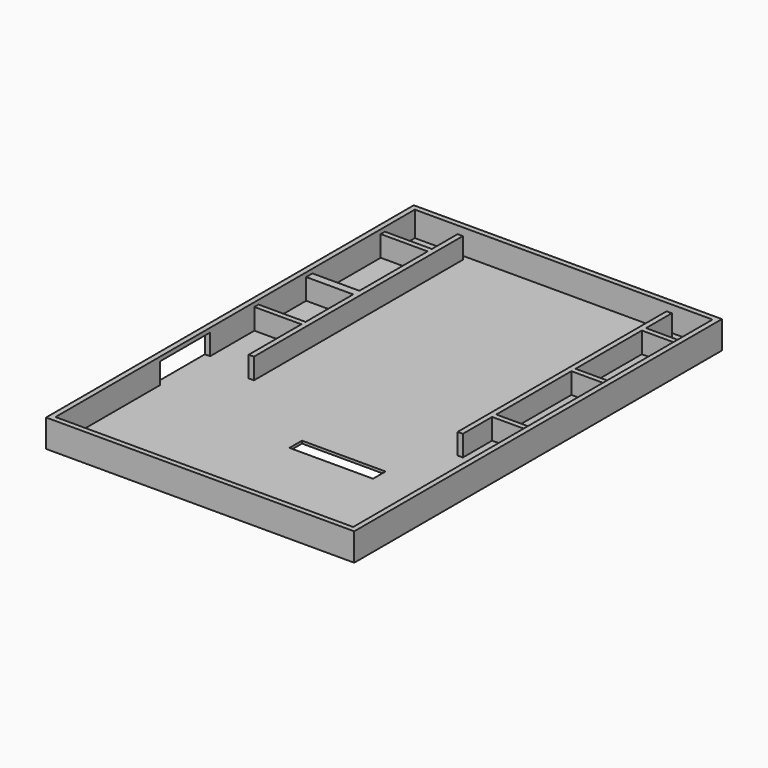
from build123d import *

# Parameters (mm, degrees)
F0_W      = 59
F0_H      = 88
F1_DEPTH  = 5.3
F2_W      = 57
F2_H      = 86
F3_DEPTH  = 4.8
F4_W      = 12
F4_H      = 4
F5_DEPTH  = 2
F6_W      = 1
F6_H      = 50
F7_DEPTH  = 4
F8_W      = 9
F8_H      = 1
F8_W_2    = 7
F8_H_2    = 1.5
F9_DEPTH  = 4
F10_W     = 16
F10_H     = 3
F11_DEPTH = 1


with BuildPart() as f1:
    # F0 (on Top) → F1 (new body)
    with BuildSketch(Plane.XY):
        Rectangle(F0_W, F0_H)
    extrude(amount=F1_DEPTH)

    # F2 (on face) → F3 (cut)
    with BuildSketch(Plane.XY.offset(5.3)):
        Rectangle(F2_W, F2_H)
        Rectangle(F2_W, F2_H)
    extrude(amount=-F3_DEPTH, mode=Mode.SUBTRACT)

    # F4 (on face) → F5 (cut)
    with BuildSketch(Plane.YZ.offset(-28.5)):
        with Locations((-12, 2.5)):
            Rectangle(F4_W, F4_H)
    extrude(amount=-F5_DEPTH, mode=Mode.SUBTRACT)

    # F6 (on face) → F7 (join)
    with BuildSketch(Plane.XY.offset(0.5)):
        with Locations((-19, 17)):
            Rectangle(F6_W, F6_H)
        with Locations((21, 17)):
            Rectangle(F6_W, F6_H)
    extrude(amount=F7_DEPTH)

    # F8 (on face) → F9 (join)
    with BuildSketch(Plane.XY.offset(0.5)):
        with Locations((-24, 35.330578)):
            Rectangle(F8_W, F8_H)
        with Locations((-24, 5.103508)):
            Rectangle(F8_W, F8_H)
        with Locations((25, 35.330578)):
            Rectangle(F8_W_2, F8_H)
        with Locations((25, 18.469588)):
            Rectangle(F8_W_2, F8_H)
        with Locations((25, -0.5)):
            Rectangle(F8_W_2, F8_H)
        with Locations((-24, 17.75)):
            Rectangle(F8_W, F8_H_2)
    extrude(amount=F9_DEPTH)

    # F10 (on face) → F11 (cut)
    with BuildSketch(Plane.XY.offset(0.5)):
        with Locations((7.3, -20.25)):
            Rectangle(F10_W, F10_H)
    extrude(amount=-F11_DEPTH, mode=Mode.SUBTRACT)


solid = f1.part
